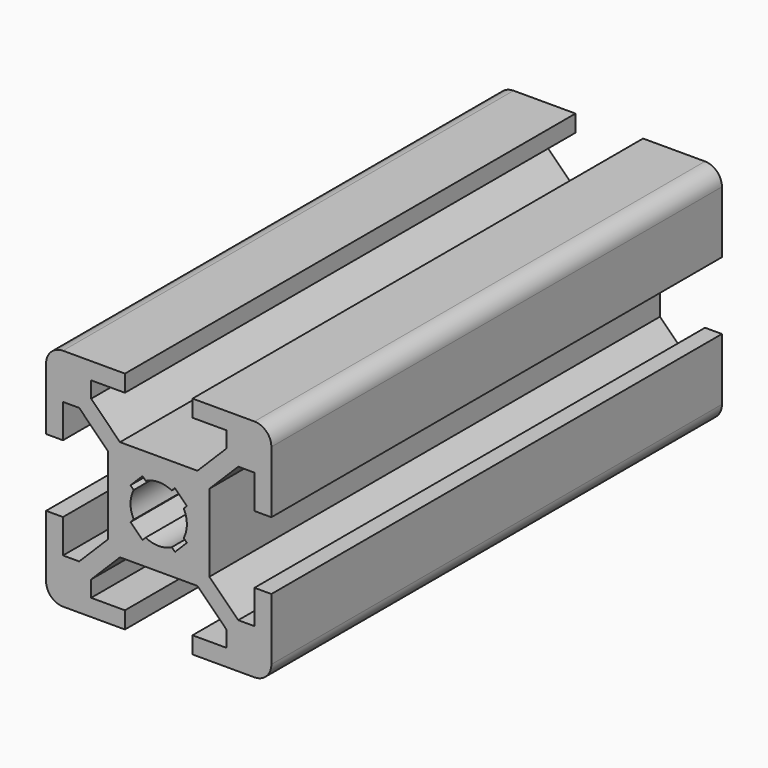
from build123d import *

# Parameters (mm, degrees)
F1_DEPTH = 50


with BuildPart() as f1:
    # F0 (on Front) → F1 (new body)
    with BuildSketch(Plane.XZ):
        with BuildLine():
            Line((3, -10), (8.5, -10))
            ThreePointArc((8.5, -10), (9.5606601718, -9.5606601718), (10, -8.5))
            Line((10, -8.5), (10, -3))
            Line((10, -3), (8.5, -3))
            Line((8.5, -3), (8.5, -6))
            Line((8.5, -6), (7.0606601718, -6))
            Line((7.0606601718, -6), (4.5, -3.4393398282))
            Line((4.5, -3.4393398282), (4.5, 3.4393398282))
            Line((4.5, 3.4393398282), (7.0606601718, 6))
            Line((7.0606601718, 6), (8.5, 6))
            Line((8.5, 6), (8.5, 3))
            Line((8.5, 3), (10, 3))
            Line((10, 3), (10, 8.5))
            ThreePointArc((10, 8.5), (9.5606601718, 9.5606601718), (8.5, 10))
            Line((8.5, 10), (3, 10))
            Line((3, 10), (3, 8.5))
            Line((3, 8.5), (6, 8.5))
            Line((6, 8.5), (6, 7.0606601718))
            Line((6, 7.0606601718), (3.4393398282, 4.5))
            Line((3.4393398282, 4.5), (-3.4393398282, 4.5))
            Line((-3.4393398282, 4.5), (-6, 7.0606601718))
            Line((-6, 7.0606601718), (-6, 8.5))
            Line((-6, 8.5), (-3, 8.5))
            Line((-3, 8.5), (-3, 10))
            Line((-3, 10), (-8.5, 10))
            ThreePointArc((-8.5, 10), (-9.5606601718, 9.5606601718), (-10, 8.5))
            Line((-10, 8.5), (-10, 3))
            Line((-10, 3), (-8.5, 3))
            Line((-8.5, 3), (-8.5, 6))
            Line((-8.5, 6), (-7.0606601718, 6))
            Line((-7.0606601718, 6), (-4.5, 3.4393398282))
            Line((-4.5, 3.4393398282), (-4.5, -3.4393398282))
            Line((-4.5, -3.4393398282), (-7.0606601718, -6))
            Line((-7.0606601718, -6), (-8.5, -6))
            Line((-8.5, -6), (-8.5, -3))
            Line((-8.5, -3), (-10, -3))
            Line((-10, -3), (-10, -8.5))
            ThreePointArc((-10, -8.5), (-9.5606601718, -9.5606601718), (-8.5, -10))
            Line((-8.5, -10), (-3, -10))
            Line((-3, -10), (-3, -8.5))
            Line((-3, -8.5), (-6, -8.5))
            Line((-6, -8.5), (-6, -7.0606601718))
            Line((-6, -7.0606601718), (-3.4393398282, -4.5))
            Line((-3.4393398282, -4.5), (3.4393398282, -4.5))
            Line((3.4393398282, -4.5), (6, -7.0606601718))
            Line((6, -7.0606601718), (6, -8.5))
            Line((6, -8.5), (3, -8.5))
            Line((3, -8.5), (3, -10))
        make_face()
        with BuildLine():
            ThreePointArc((-1.1560121095, 2.2166722813), (0, 2.5), (1.1560121095, 2.2166722813))
            Line((1.1560121095, 2.2166722813), (1.4393398282, 2.5))
            Line((1.4393398282, 2.5), (2.5, 1.4393398282))
            Line((2.5, 1.4393398282), (2.2166722813, 1.1560121095))
            ThreePointArc((2.2166722813, 1.1560121095), (2.5, 0), (2.2166722813, -1.1560121095))
            Line((2.2166722813, -1.1560121095), (2.5, -1.4393398282))
            Line((2.5, -1.4393398282), (1.4393398282, -2.5))
            Line((1.4393398282, -2.5), (1.1560121095, -2.2166722813))
            ThreePointArc((1.1560121095, -2.2166722813), (0, -2.5), (-1.1560121095, -2.2166722813))
            Line((-1.1560121095, -2.2166722813), (-1.4393398282, -2.5))
            Line((-1.4393398282, -2.5), (-2.5, -1.4393398282))
            Line((-2.5, -1.4393398282), (-2.2166722813, -1.1560121095))
            ThreePointArc((-2.2166722813, -1.1560121095), (-2.5, 0), (-2.2166722813, 1.1560121095))
            Line((-2.2166722813, 1.1560121095), (-2.5, 1.4393398282))
            Line((-2.5, 1.4393398282), (-1.4393398282, 2.5))
            Line((-1.4393398282, 2.5), (-1.1560121095, 2.2166722813))
        make_face(mode=Mode.SUBTRACT)
    extrude(amount=F1_DEPTH)


solid = f1.part
